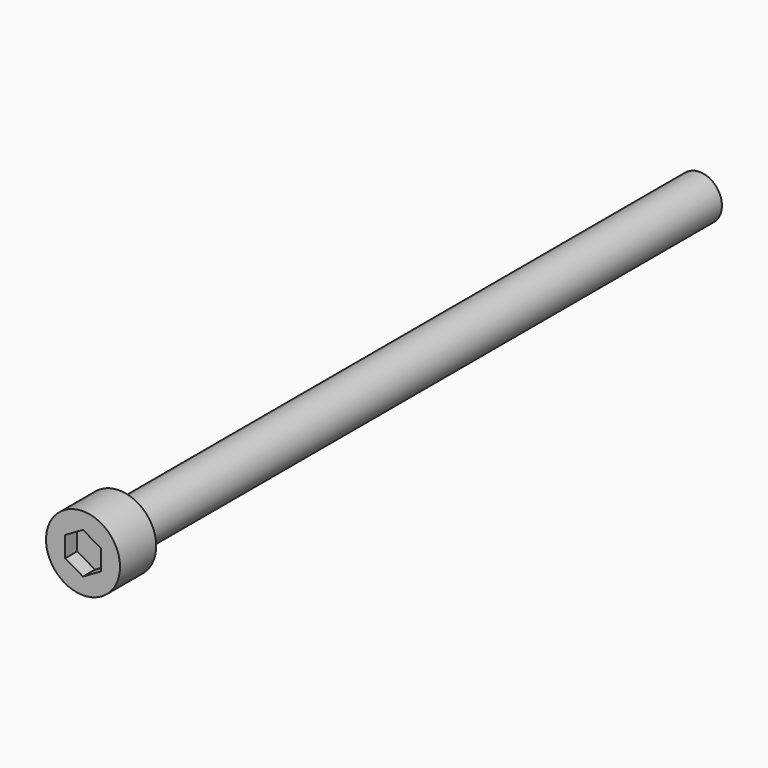
from build123d import *

# Parameters (mm, degrees)
F1_DEPTH = 3.175
F0_R     = 3.8862
F2_DEPTH = 4.7498
F3_R     = 2.3495
F4_DEPTH = 76.2


with BuildPart() as f1:
    # F0 (on Front) → F1 (new body)
    with BuildSketch(Plane.XZ):
        Polygon((1.869749, -1.0795), (1.869749, 1.0795), (0, 2.159), (-1.869749, 1.0795), (-1.869749, -1.0795), (0, -2.159), align=None)
    extrude(amount=F1_DEPTH)

    # F0 (on Front) → F2 (join)
    with BuildSketch(Plane.XZ):
        Circle(F0_R)
        Polygon((0, 2.159), (1.869749, 1.0795), (1.869749, -1.0795), (0, -2.159), (-1.869749, -1.0795), (-1.869749, 1.0795), align=None, mode=Mode.SUBTRACT)
    extrude(amount=F2_DEPTH)

    # F3 (on face) → F4 (join)
    with BuildSketch(Plane(origin=(0, 0, 0), x_dir=(-1, 0, 0), z_dir=(0, 1, 0))):
        Circle(F3_R)
    extrude(amount=F4_DEPTH)


solid = f1.part
